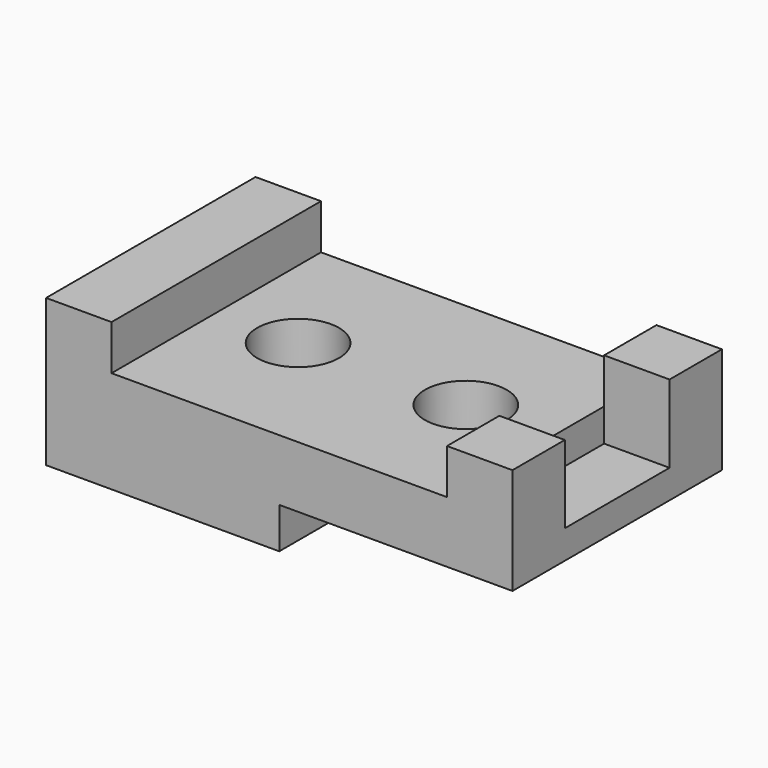
from build123d import *

# Parameters (mm, degrees)
F0_W      = 144.78
F0_H      = 81.28
F1_DEPTH  = 45.72
F2_W      = 104.14
F2_H      = 81.28
F3_DEPTH  = 13.97
F4_W      = 20.32
F4_H      = 40.64
F5_DEPTH  = 24.13
F6_W      = 72.39
F6_H      = 81.28
F7_DEPTH  = 12.7
F8_R      = 12.7
F9_DEPTH  = 32.004
F10_R     = 12.7
F11_DEPTH = 19.558


with BuildPart() as f1:
    # F0 (on Top) → F1 (new body)
    with BuildSketch(Plane.XY):
        with Locations((1.572737, 9.473312)):
            Rectangle(F0_W, F0_H)
    extrude(amount=F1_DEPTH)

    # F2 (on face) → F3 (cut)
    with BuildSketch(Plane.XY.offset(45.72)):
        with Locations((1.572737, 9.473312)):
            Rectangle(F2_W, F2_H)
    extrude(amount=-F3_DEPTH, mode=Mode.SUBTRACT)

    # F4 (on face) → F5 (cut)
    with BuildSketch(Plane.XY.offset(45.72)):
        with Locations((63.802737, 9.473312)):
            Rectangle(F4_W, F4_H)
    extrude(amount=-F5_DEPTH, mode=Mode.SUBTRACT)

    # F6 (on face) → F7 (cut)
    with BuildSketch(Plane(origin=(0, 0, 0), x_dir=(1, 0, 0), z_dir=(0, 0, -1))):
        with Locations((37.767737, -9.473312)):
            Rectangle(F6_W, F6_H)
    extrude(amount=-F7_DEPTH, mode=Mode.SUBTRACT)

    # F8 (on face) → F9 (cut)
    with BuildSketch(Plane.XY.offset(31.75)):
        with Locations((-25.097263, 9.473312)):
            Circle(F8_R)
    extrude(amount=-F9_DEPTH, mode=Mode.SUBTRACT)

    # F10 (on face) → F11 (cut)
    with BuildSketch(Plane.XY.offset(31.75)):
        with Locations((26.972737, 9.473312)):
            Circle(F10_R)
    extrude(amount=-F11_DEPTH, mode=Mode.SUBTRACT)


solid = f1.part
